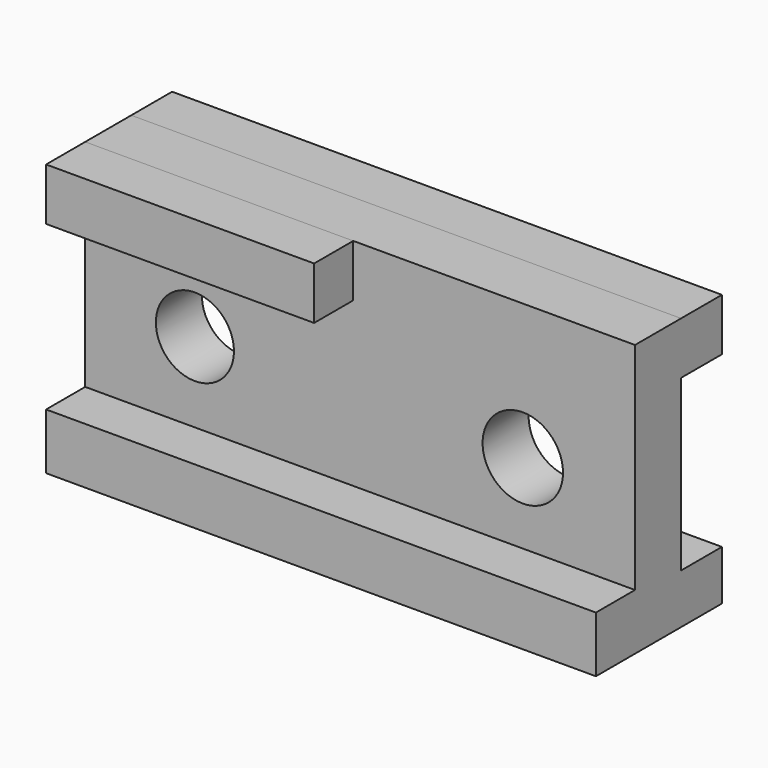
from build123d import *

# Parameters (mm, degrees)
F0_W     = 128.540657
F0_H     = 63.54164
F0_R     = 9.129278
F0_R_2   = 9.399797
F1_DEPTH = 13.462
F2_W     = 62.667213
F2_H     = 12.241967
F2_W_2   = 128.540657
F2_H_2   = 13.116394
F3_DEPTH = 11.43
F4_W     = 128.540657
F4_H     = 12.241967
F4_H_2   = 11.659017
F5_DEPTH = 11.938


with BuildPart() as f1:
    # F0 (on Front) → F1 (new body)
    with BuildSketch(Plane.XZ):
        with Locations((-1.89459, 7.432623)):
            Rectangle(F0_W, F0_H)
        with Locations((-40.515084, 7.432623)):
            Circle(F0_R, mode=Mode.SUBTRACT)
        with Locations((36.142953, 7.432623)):
            Circle(F0_R_2, mode=Mode.SUBTRACT)
    extrude(amount=F1_DEPTH)

    # F2 (on face) → F3 (join)
    with BuildSketch(Plane.XZ.offset(13.462)):
        with Locations((-34.831311, 33.082459)):
            Rectangle(F2_W, F2_H)
        with Locations((-1.89459, -17.78)):
            Rectangle(F2_W_2, F2_H_2)
    extrude(amount=F3_DEPTH)

    # F4 (on face) → F5 (join)
    with BuildSketch(Plane(origin=(0, 0, 0), x_dir=(-1, 0, 0), z_dir=(0, 1, 0))):
        with Locations((1.89459, 33.082459)):
            Rectangle(F4_W, F4_H)
        with Locations((1.89459, -18.508688)):
            Rectangle(F4_W, F4_H_2)
    extrude(amount=F5_DEPTH)


solid = f1.part
